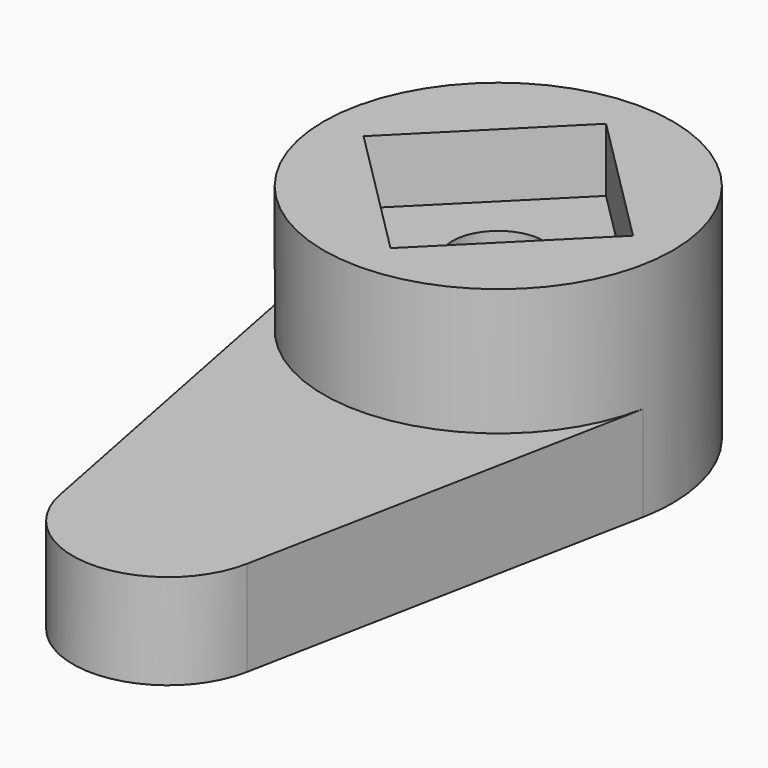
from build123d import *

# Parameters (mm, degrees)
F0_R          = 5.5
F1_DEPTH      = 5
F1_DEPTH_BACK = 2
F3_DEPTH      = 2
F5_START      = -2
F5_DEPTH      = 3
F7_START      = -4
F6_R          = 2.85
F7_DEPTH      = 21
F8_R          = 1.45
F9_DEPTH      = 25
F9_DEPTH_BACK = 25


with BuildPart() as f1:
    # F0 (on Top) → F1 (new body, two sides)
    with BuildSketch(Plane.XY) as f1_sk:
        Circle(F0_R)
    extrude(amount=-F1_DEPTH)
    extrude(f1_sk.sketch, amount=F1_DEPTH_BACK)

    # F2 (on Top) → F3 (cut)
    with BuildSketch(Plane.XY):
        Polygon((4.2426406871, 0), (0, 4.2426406871), (-4.2426406871, 0), (0, -4.2426406871), align=None)
    extrude(amount=F3_DEPTH, mode=Mode.SUBTRACT)

    # F4 (on Top) → F5 (join)
    with BuildSketch(Plane.XY.offset(F5_START)):
        with BuildLine():
            Line((-5.3973407325, -1.0576923077), (-2.9440040359, -13.5769230769))
            ThreePointArc((-2.9440040359, -13.5769230769), (0, -16), (2.9440040359, -13.5769230769))
            Line((2.9440040359, -13.5769230769), (5.3973407325, -1.0576923077))
            ThreePointArc((5.3973407325, -1.0576923077), (0, 5.5), (-5.3973407325, -1.0576923077))
        make_face()
    extrude(amount=-F5_DEPTH)

    # F6 (on Top) → F7 (cut)
    with BuildSketch(Plane.XY.offset(F7_START)):
        Circle(F6_R)
    extrude(amount=-F7_DEPTH, mode=Mode.SUBTRACT)

    # F8 (on Top) → F9 (cut, two sides)
    with BuildSketch(Plane.XY) as f9_sk:
        Circle(F8_R)
    extrude(amount=-F9_DEPTH, mode=Mode.SUBTRACT)
    extrude(f9_sk.sketch, amount=F9_DEPTH_BACK, mode=Mode.SUBTRACT)


solid = f1.part
